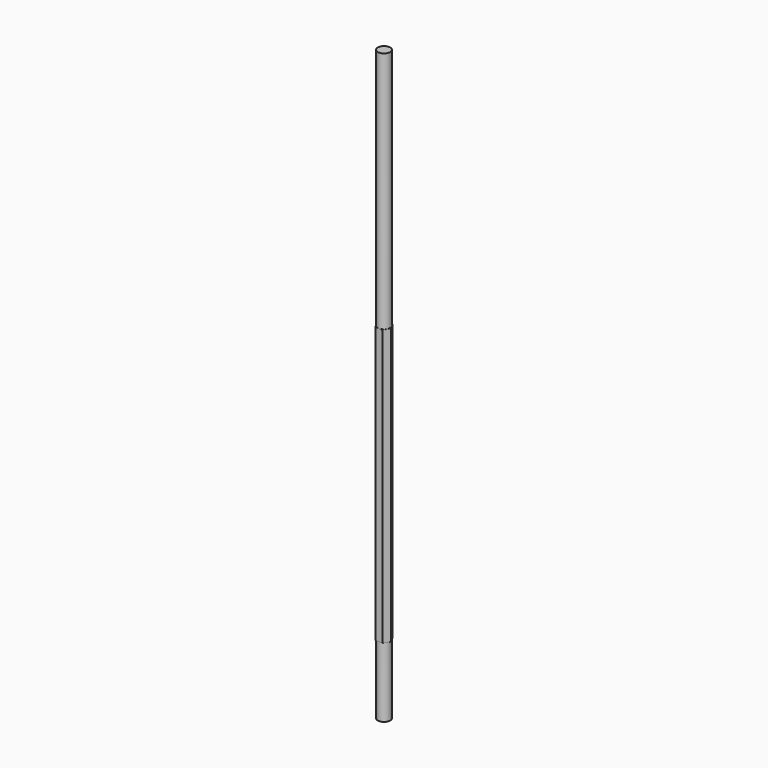
from build123d import *

# Parameters (mm, degrees)
F0_R     = 12.5
F1_DEPTH = 140
F3_DEPTH = 553
F4_R     = 12.5
F5_DEPTH = 487


with BuildPart() as f1:
    # F0 (on Top) → F1 (new body)
    with BuildSketch(Plane.XY):
        Circle(F0_R)
    extrude(amount=F1_DEPTH)

    # F2 (on face) → F3 (join)
    with BuildSketch(Plane.XY.offset(140)):
        Polygon((7.2168783649, 12.5), (-7.2168783649, 12.5), (-14.4337567297, 0), (-7.2168783649, -12.5), (7.2168783649, -12.5), (14.4337567297, 0), align=None)
    extrude(amount=F3_DEPTH)

    # F4 (on face) → F5 (join)
    with BuildSketch(Plane.XY.offset(693)):
        Circle(F4_R)
    extrude(amount=F5_DEPTH)


solid = f1.part
